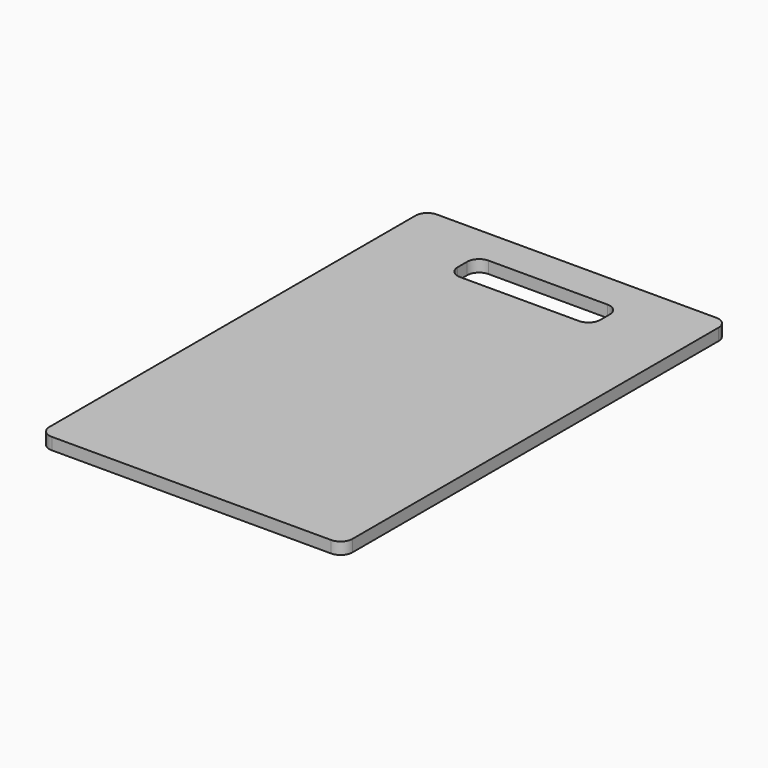
from build123d import *

# Parameters (mm, degrees)
F0_W     = 255
F0_H     = 405
F0_W_2   = 120
F0_H_2   = 30
F1_DEPTH = 10
F2_R     = 10


with BuildPart() as f1:
    # F0 (on Top) → F1 (new body)
    with BuildSketch(Plane.XY):
        Rectangle(F0_W, F0_H)
        with Locations((0, 157.5)):
            Rectangle(F0_W_2, F0_H_2, mode=Mode.SUBTRACT)
    extrude(amount=F1_DEPTH)

    # F2
    f2_edges = [f1.edges().sort_by_distance(p)[0] for p in [
        (-127.5, 202.5, 5),
        (127.5, 202.5, 5),
        (60, 142.5, 5),
        (60, 172.5, 5),
        (-60, 172.5, 5),
        (-60, 142.5, 5),
        (127.5, -202.5, 5),
        (-127.5, -202.5, 5),
    ]]
    fillet(f2_edges, radius=F2_R)


solid = f1.part
